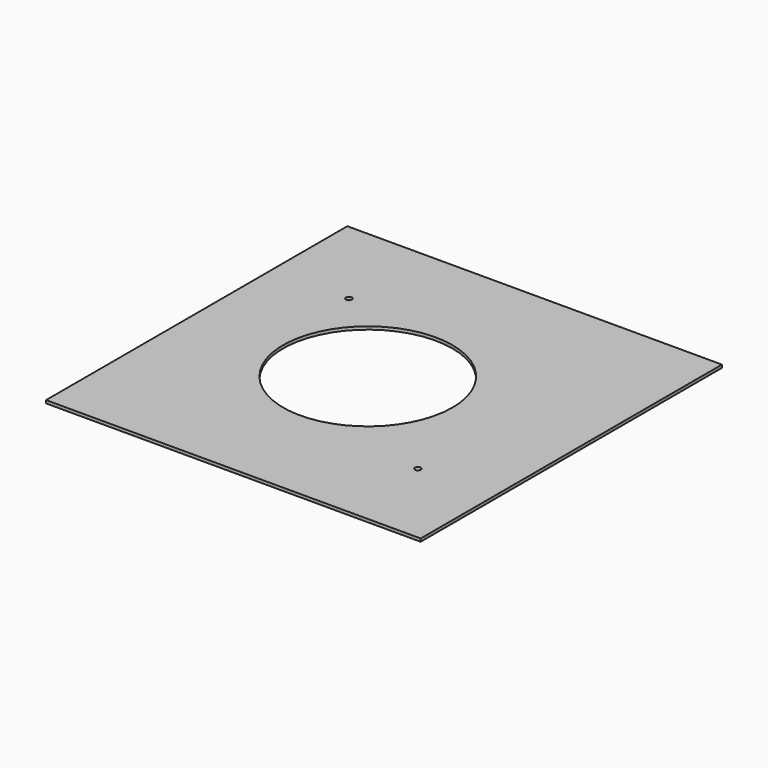
from build123d import *

# Parameters (mm, degrees)
F0_W     = 252.677536
F0_H     = 254
F0_R     = 2
F0_R_2   = 57.09
F1_DEPTH = 2


with BuildPart() as f1:
    # F0 (on Top) → F1 (new body)
    with BuildSketch(Plane.XY):
        with Locations((10.925385, 0)):
            Rectangle(F0_W, F0_H)
        with Locations((86.43546, -65.759636)):
            Circle(F0_R, mode=Mode.SUBTRACT)
        with Locations((-63.210703, 63.091718)):
            Circle(F0_R, mode=Mode.SUBTRACT)
        Circle(F0_R_2, mode=Mode.SUBTRACT)
    extrude(amount=F1_DEPTH)


solid = f1.part
